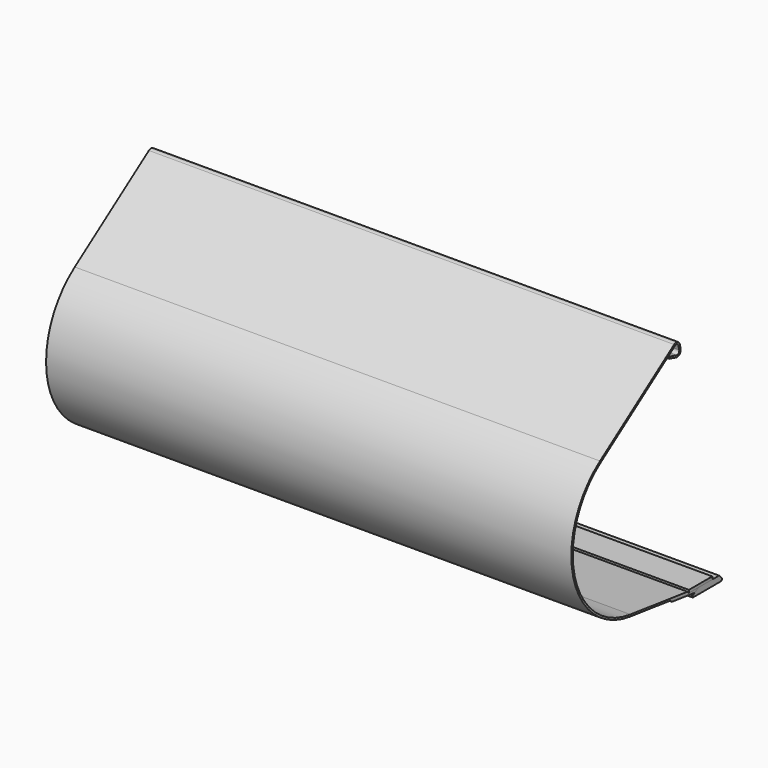
from build123d import *

# Parameters (mm, degrees)
F1_DEPTH = 914.4
F2_W     = 101.6
F2_H     = 9.525
F3_DEPTH = 914.4
F5_DEPTH = 914.4


with BuildPart() as f1:
    # F0 (on Right) → F1 (new body, symmetric)
    with BuildSketch(Plane.YZ):
        with BuildLine():
            Line((-127, 6.566243), (-127, 0))
            Line((-127, 0), (-6, 0))
            ThreePointArc((-6, 0), (-0.456723, 3.703899), (-1.757359, 10.242641))
            Line((-1.757359, 10.242641), (-12.514719, 21))
            Line((-12.514719, 21), (-102, 21))
            Line((-102, 21), (-127, 6.566243))
        make_face()
    extrude(amount=F1_DEPTH, both=True)


with BuildPart() as f3:
    # F2 (on Right) → F3 (new body, symmetric)
    with BuildSketch(Plane.YZ):
        with Locations((-92.8, 25.7625)):
            Rectangle(F2_W, F2_H)
    extrude(amount=F3_DEPTH, both=True)


with BuildPart() as f5:
    # F4 (on Right) → F5 (new body, symmetric)
    with BuildSketch(Plane.YZ):
        with BuildLine():
            Line((-118.497784, 11.475), (-102, 21))
            Line((-102, 21), (-143.6, 21))
            Line((-143.6, 21), (-149.95, 27.35))
            Line((-149.95, 27.35), (-398.479945, 58.687657))
            ThreePointArc((-398.479945, 58.687657), (-640.676483, 274.022079), (-526.934011, 577.486617))
            Line((-526.934011, 577.486617), (-204.235092, 803.442833))
            ThreePointArc((-204.235092, 803.442833), (-195.241829, 804.547067), (-189.297408, 797.708794))
            Line((-189.297408, 797.708794), (-185.923142, 783.093243))
            ThreePointArc((-185.923142, 783.093243), (-188.62236, 773.980836), (-197.823417, 771.601281))
            Line((-197.823417, 771.601281), (-227.783864, 779.629158))
            Line((-227.783864, 779.629158), (-229.427365, 773.495529))
            Line((-229.427365, 773.495529), (-199.466918, 765.467652))
            ThreePointArc((-199.466918, 765.467652), (-184.21128, 769.413028), (-179.735892, 784.521682))
            Line((-179.735892, 784.521682), (-183.110158, 799.137233))
            ThreePointArc((-183.110158, 799.137233), (-192.966192, 810.475303), (-207.877302, 808.644449))
            Line((-207.877302, 808.644449), (-530.576222, 582.688233))
            ThreePointArc((-530.576222, 582.688233), (-646.840355, 272.495911), (-399.27434, 52.387543))
            Line((-399.27434, 52.387543), (-224.015868, 30.288838))
            Line((-224.015868, 30.288838), (-217.712179, 23.985149))
            Line((-217.712179, 23.985149), (-118.497784, 11.475))
        make_face()
    extrude(amount=F5_DEPTH, both=True)


solid = Compound([f1.part, f3.part, f5.part])
